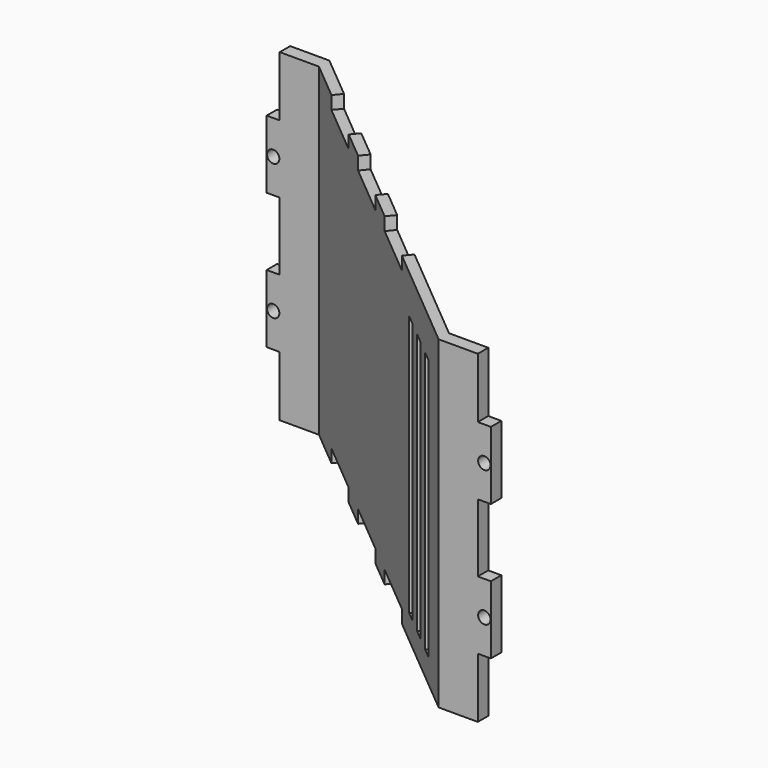
from build123d import *

# Parameters (mm, degrees)
F0_W     = 12.7
F0_H     = 3.175
F1_DEPTH = 39.37
F2_W     = 3.175
F2_H     = 14.605
F2_H_2   = 16.51
F2_R     = 1.5
F3_DEPTH = 25.4
F4_W     = 3.175
F4_H     = 14.605
F4_R     = 1.5
F5_DEPTH = 25.4
F6_W     = 3.175
F6_H     = 63.5
F6_W_2   = 16.51
F6_H_2   = 3.175
F7_DEPTH = 25.4


with BuildPart() as f1:
    # F0 (on Top) → F1 (new body, symmetric)
    with BuildSketch(Plane.XY):
        with Locations((-50.2026024774, 36.647943407)):
            Rectangle(F0_W, F0_H)
        Polygon((-43.8526024774, 38.235443407), (-43.8526024774, 35.060443407), (43.8526024774, -38.235443407), (43.8526024774, -35.060443407), align=None)
        with Locations((50.2026024774, -36.647943407)):
            Rectangle(F0_W, F0_H)
    extrude(amount=F1_DEPTH, both=True)

    # F2 (on face) → F3 (cut)
    with BuildSketch(Plane(origin=(0, 38.235443407, 0), x_dir=(-1, 0, 0), z_dir=(0, 1, 0))):
        with Locations((54.9651024774, 32.0675)):
            Rectangle(F2_W, F2_H)
        with Locations((54.9651024774, 0)):
            Rectangle(F2_W, F2_H_2)
        with Locations((54.9651024774, -32.0675)):
            Rectangle(F2_W, F2_H)
        with Locations((54.9651024774, 16.51)):
            Circle(F2_R)
        with Locations((54.9651024774, -16.51)):
            Circle(F2_R)
    extrude(amount=-F3_DEPTH, mode=Mode.SUBTRACT)

    # F4 (on face) → F5 (cut)
    with BuildSketch(Plane(origin=(0, -35.060443407, 0), x_dir=(-1, 0, 0), z_dir=(0, 1, 0))):
        with Locations((-54.9651024774, 32.0675)):
            Rectangle(F4_W, F4_H)
        with Locations((-54.9651024774, -32.0675)):
            Rectangle(F4_W, F4_H)
        Polygon((-56.5526024774, 8.255), (-56.5526024774, 0), (-56.5526024774, -8.255), (-53.3776024774, -8.255), (-53.3776024774, 8.255), align=None)
        with Locations((-54.9651024774, 16.51)):
            Circle(F4_R)
        with Locations((-54.9651024774, -16.51)):
            Circle(F4_R)
    extrude(amount=-F5_DEPTH, mode=Mode.SUBTRACT)

    # F6 (on face) → F7 (cut)
    with BuildSketch(Plane(origin=(0.7811352648, 0.9346994965, 0), x_dir=(-0.7673246278, 0.6412588523, 0), z_dir=(0.6412588523, 0.7673246278, 0))):
        with Locations((-31.684501572, -1.7767186165)):
            Rectangle(F6_W, F6_H)
        with Locations((-39.304501572, -1.7767186165)):
            Rectangle(F6_W, F6_H)
        with Locations((-46.924501572, -1.7767186165)):
            Rectangle(F6_W, F6_H)
        with Locations((35.942998428, 37.7825)):
            Rectangle(F6_W_2, F6_H_2)
        with Locations((10.542998428, 37.7825)):
            Rectangle(F6_W_2, F6_H_2)
        with Locations((-14.857001572, 37.7825)):
            Rectangle(F6_W_2, F6_H_2)
        with Locations((35.942998428, -37.7825)):
            Rectangle(F6_W_2, F6_H_2)
        with Locations((10.542998428, -37.7825)):
            Rectangle(F6_W_2, F6_H_2)
        with Locations((-14.857001572, -37.7825)):
            Rectangle(F6_W_2, F6_H_2)
    extrude(amount=-F7_DEPTH, mode=Mode.SUBTRACT)


solid = f1.part
